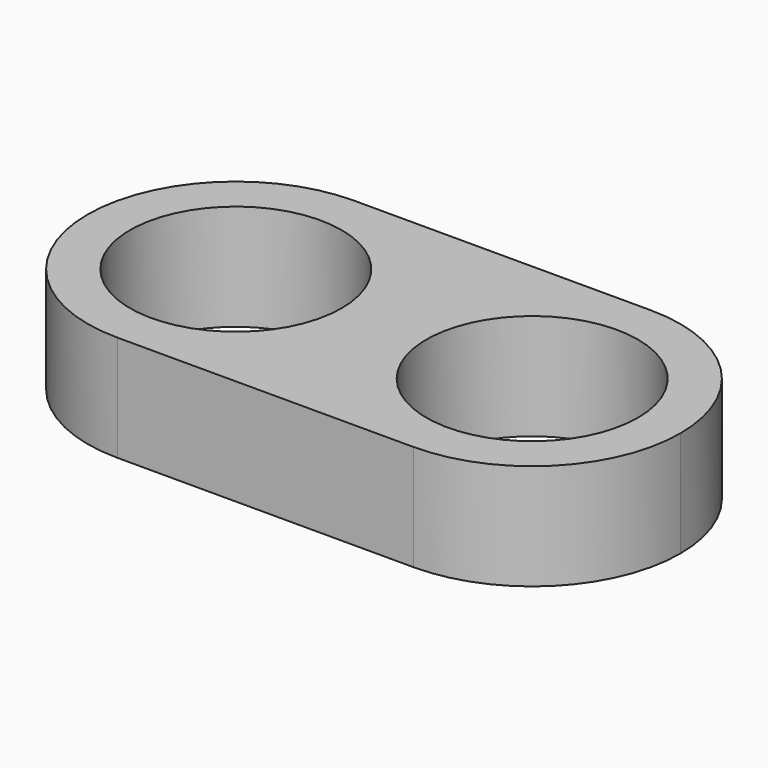
from build123d import *

# Parameters (mm, degrees)
F1_DEPTH = 2.5
F2_R     = 2.5
F3_DEPTH = 25


with BuildPart() as f1:
    # F0 (on Top) → F1 (new body)
    with BuildSketch(Plane.XY):
        with BuildLine():
            ThreePointArc((3.5, -3.5), (5.9748737342, -2.4748737342), (7, 0))
            ThreePointArc((7, 0), (5.9748737342, 2.4748737342), (3.5, 3.5))
            Line((3.5, 3.5), (3.5, -3.5))
        make_face()
        with BuildLine():
            ThreePointArc((-3.5, -3.5), (-1.0251262658, -2.4748737342), (0, 0))
            ThreePointArc((0, 0), (-1.0251262658, 2.4748737342), (-3.5, 3.5))
            ThreePointArc((-3.5, 3.5), (-7, 0), (-3.5, -3.5))
        make_face()
        with BuildLine():
            ThreePointArc((0, 0), (1.0251262658, 2.4748737342), (3.5, 3.5))
            Line((3.5, 3.5), (0, 3.5))
            Line((0, 3.5), (0, 0))
        make_face()
        with BuildLine():
            Line((3.5, -3.5), (3.5, 3.5))
            ThreePointArc((3.5, 3.5), (1.0251262658, 2.4748737342), (0, 0))
            ThreePointArc((0, 0), (1.0251262658, -2.4748737342), (3.5, -3.5))
        make_face()
        with BuildLine():
            ThreePointArc((-3.5, 3.5), (-1.0251262658, 2.4748737342), (0, 0))
            Line((0, 0), (0, 3.5))
            Line((0, 3.5), (-3.5, 3.5))
        make_face()
        with BuildLine():
            Line((0, -3.5), (0, 0))
            ThreePointArc((0, 0), (-1.0251262658, -2.4748737342), (-3.5, -3.5))
            Line((-3.5, -3.5), (0, -3.5))
        make_face()
        with BuildLine():
            Line((0, -3.5), (3.5, -3.5))
            ThreePointArc((3.5, -3.5), (1.0251262658, -2.4748737342), (0, 0))
            Line((0, 0), (0, -3.5))
        make_face()
    extrude(amount=F1_DEPTH)

    # F2 (on face) → F3 (cut)
    with BuildSketch(Plane.XY.offset(2.5)):
        with Locations((-3.5, 0)):
            Circle(F2_R)
        with Locations((3.5, 0)):
            Circle(F2_R)
    extrude(amount=-F3_DEPTH, mode=Mode.SUBTRACT)


solid = f1.part
